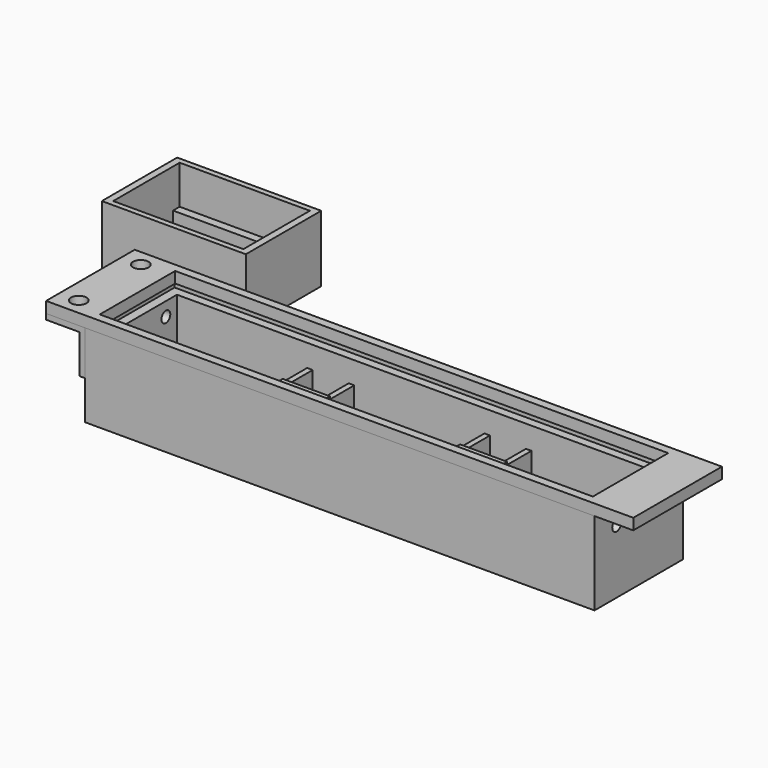
from build123d import *

# Parameters (mm, degrees)
F0_W      = 26
F0_H      = 17
F0_W_2    = 23.5
F0_H_2    = 15
F1_DEPTH  = 12
F2_W      = 23.5
F2_H      = 1.5
F3_DEPTH  = 5
F4_W      = 90
F4_H      = 18
F4_W_2    = 23.5
F4_H_2    = 15
F4_W_3    = 6.5
F4_W_4    = 16.5
F4_W_5    = 5.25
F5_DEPTH  = 14
F6_W      = 63.329597
F6_H      = 15
F7_DEPTH  = 4
F8_W      = 86.75
F8_H      = 2
F8_W_2    = 23.5
F8_W_3    = 16.5
F9_DEPTH  = 6
F10_W     = 8.5
F10_H     = 1
F10_W_2   = 6.25
F11_DEPTH = 10.5
F12_W     = 92
F12_H     = 20
F12_W_2   = 90
F12_H_2   = 18
F13_DEPTH = 15
F14_R     = 1
F15_DEPTH = 100.1
F16_W     = 20
F16_H     = 8
F16_R     = 1.25
F17_DEPTH = 1
F18_W     = 6
F18_H     = 20
F18_R     = 1.4
F19_DEPTH = 1
F20_W     = 106
F20_H     = 20
F20_R     = 1.4
F20_W_2   = 89
F20_H_2   = 17
F21_DEPTH = 2


with BuildPart() as f1:
    # F0 (on Top) → F1 (new body)
    with BuildSketch(Plane.XY):
        with Locations((-55.407508, -29.570559)):
            Rectangle(F0_W, F0_H)
        with Locations((-55.407508, -29.570559)):
            Rectangle(F0_W_2, F0_H_2, mode=Mode.SUBTRACT)
    extrude(amount=F1_DEPTH)

    # F2 (on Top) → F3 (join)
    with BuildSketch(Plane.XY):
        with Locations((-55.407508, -22.820559)):
            Rectangle(F2_W, F2_H)
        with Locations((-55.407508, -36.320559)):
            Rectangle(F2_W, F2_H)
    extrude(amount=F3_DEPTH)


with BuildPart() as f5:
    # F4 (on Top) → F5 (new body)
    with BuildSketch(Plane.XY):
        with Locations((3.495086, -64.277902)):
            Rectangle(F4_W, F4_H)
        with Locations((-28.129914, -64.277902)):
            Rectangle(F4_W_2, F4_H_2, mode=Mode.SUBTRACT)
        with Locations((-12.129914, -64.277902)):
            Rectangle(F4_W_3, F4_H_2, mode=Mode.SUBTRACT)
        with Locations((3.870086, -64.277902)):
            Rectangle(F4_W_2, F4_H_2, mode=Mode.SUBTRACT)
        with Locations((19.870086, -64.277902)):
            Rectangle(F4_W_3, F4_H_2, mode=Mode.SUBTRACT)
        with Locations((32.370086, -64.277902)):
            Rectangle(F4_W_4, F4_H_2, mode=Mode.SUBTRACT)
        with Locations((44.245086, -64.277902)):
            Rectangle(F4_W_5, F4_H_2, mode=Mode.SUBTRACT)
    extrude(amount=F5_DEPTH)

    # F6 (on face) → F7 (cut)
    with BuildSketch(Plane.XY.offset(14)):
        with Locations((11.350946, -64.277902)):
            Rectangle(F6_W, F6_H)
    extrude(amount=-F7_DEPTH, mode=Mode.SUBTRACT)

    # F8 (on Top) → F9 (join)
    with BuildSketch(Plane.XY):
        with Locations((3.495086, -57.777902)):
            Rectangle(F8_W, F8_H)
        with Locations((-28.129914, -70.777902)):
            Rectangle(F8_W_2, F8_H)
        with Locations((3.870086, -70.777902)):
            Rectangle(F8_W_2, F8_H)
        with Locations((32.370086, -70.777902)):
            Rectangle(F8_W_3, F8_H)
    extrude(amount=F9_DEPTH)

    # F10 (on Top) → F11 (join)
    with BuildSketch(Plane.XY):
        with Locations((-12.129914, -62.777902)):
            Rectangle(F10_W, F10_H)
        with Locations((19.870086, -62.777902)):
            Rectangle(F10_W, F10_H)
        with Locations((-12.129914, -68.077902)):
            Rectangle(F10_W, F10_H)
        with Locations((19.870086, -68.077902)):
            Rectangle(F10_W, F10_H)
        with Locations((43.745086, -68.077902)):
            Rectangle(F10_W_2, F10_H)
    extrude(amount=F11_DEPTH)

    # F12 (on Top) → F13 (join)
    with BuildSketch(Plane.XY):
        with Locations((3.495086, -64.277902)):
            Rectangle(F12_W, F12_H)
        with Locations((3.495086, -64.277902)):
            Rectangle(F12_W_2, F12_H_2, mode=Mode.SUBTRACT)
    extrude(amount=F13_DEPTH)

    # F14 (on face) → F15 (cut)
    with BuildSketch(Plane(origin=(-42.504914, 0, 0), x_dir=(0, -1, 0), z_dir=(-1, 0, 0))):
        with Locations((59.277902, 11.5)):
            Circle(F14_R)
        with Locations((69.277902, 11.5)):
            Circle(F14_R)
    extrude(amount=-F15_DEPTH, mode=Mode.SUBTRACT)


with BuildPart() as f17:
    # F16 (on face) → F17 (new body)
    with BuildSketch(Plane(origin=(-42.504914, 0, 0), x_dir=(0, -1, 0), z_dir=(-1, 0, 0))):
        with Locations((64.277902, 11)):
            Rectangle(F16_W, F16_H)
        with Locations((59.277902, 10.5)):
            Circle(F16_R, mode=Mode.SUBTRACT)
        with Locations((69.277902, 10.5)):
            Circle(F16_R, mode=Mode.SUBTRACT)
    extrude(amount=F17_DEPTH)

    # F18 (on face) → F19 (join)
    with BuildSketch(Plane.XY.offset(15)):
        with Locations((-46.504914, -64.277902)):
            Rectangle(F18_W, F18_H)
        with Locations((-46.504914, -69.277902)):
            Circle(F18_R, mode=Mode.SUBTRACT)
        with Locations((-46.504914, -59.277902)):
            Circle(F18_R, mode=Mode.SUBTRACT)
    extrude(amount=-F19_DEPTH)


with BuildPart() as f21:
    # F20 (on face) → F21 (new body)
    with BuildSketch(Plane.XY.offset(15)):
        with Locations((3.495086, -64.277902)):
            Rectangle(F20_W, F20_H)
        with Locations((-46.004914, -71.277902)):
            Circle(F20_R, mode=Mode.SUBTRACT)
        with Locations((-46.004914, -57.277902)):
            Circle(F20_R, mode=Mode.SUBTRACT)
        with Locations((3.495086, -64.277902)):
            Rectangle(F20_W_2, F20_H_2, mode=Mode.SUBTRACT)
    extrude(amount=F21_DEPTH)


solid = Compound([f1.part, f5.part, f17.part, f21.part])
